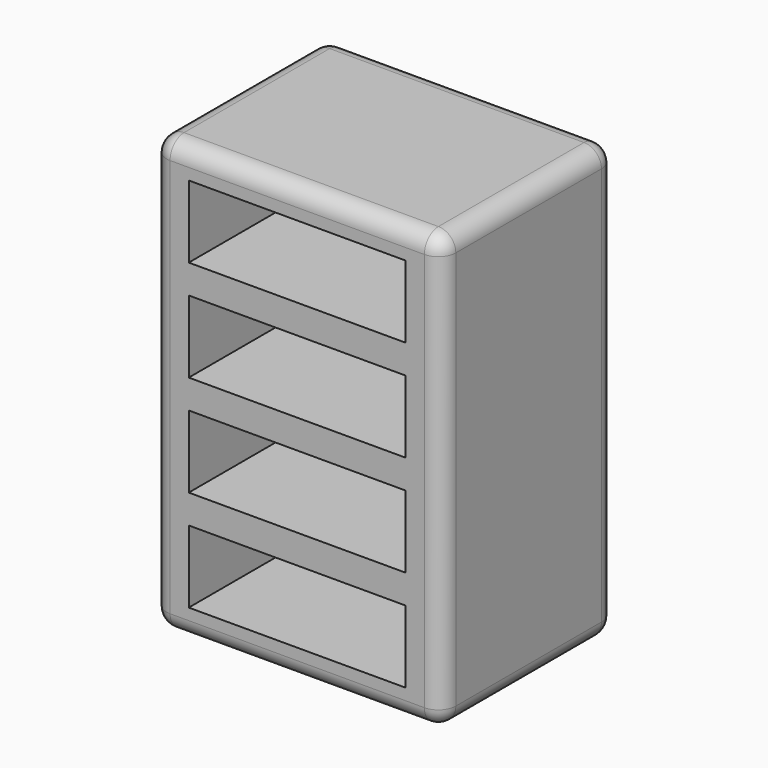
from build123d import *

# Parameters (mm, degrees)
F0_W     = 101.6
F0_H     = 76.2
F1_DEPTH = 152.4
F2_W     = 76.2
F2_H     = 25.4
F3_DEPTH = 65.786
F4_R     = 6.132102


with BuildPart() as f1:
    # F0 (on Top) → F1 (new body)
    with BuildSketch(Plane.XY):
        with Locations((-10.087167, 2.012966)):
            Rectangle(F0_W, F0_H)
    extrude(amount=F1_DEPTH)

    # F2 (on face) → F3 (cut)
    with BuildSketch(Plane.XZ.offset(36.087034)):
        with Locations((-10.087167, 129.54)):
            Rectangle(F2_W, F2_H)
        with Locations((-10.087167, 93.98)):
            Rectangle(F2_W, F2_H)
        with Locations((-10.087167, 58.42)):
            Rectangle(F2_W, F2_H)
        with Locations((-10.087167, 22.86)):
            Rectangle(F2_W, F2_H)
    extrude(amount=-F3_DEPTH, mode=Mode.SUBTRACT)

    # F4
    f4_edges = [f1.edges().sort_by_distance(p)[0] for p in [
        (-60.887167, 2.012966, 152.4),
        (-10.087167, -36.087034, 152.4),
        (40.712833, 2.012966, 152.4),
        (-10.087167, 40.112966, 152.4),
        (40.712833, -36.087034, 76.2),
        (40.712833, 40.112966, 76.2),
        (-60.887167, 40.112966, 76.2),
        (-60.887167, -36.087034, 76.2),
        (-10.087167, -36.087034, 0),
        (-10.087167, 40.112966, 0),
        (40.712833, 2.012966, 0),
        (-60.887167, 2.012966, 0),
    ]]
    fillet(f4_edges, radius=F4_R)


solid = f1.part
